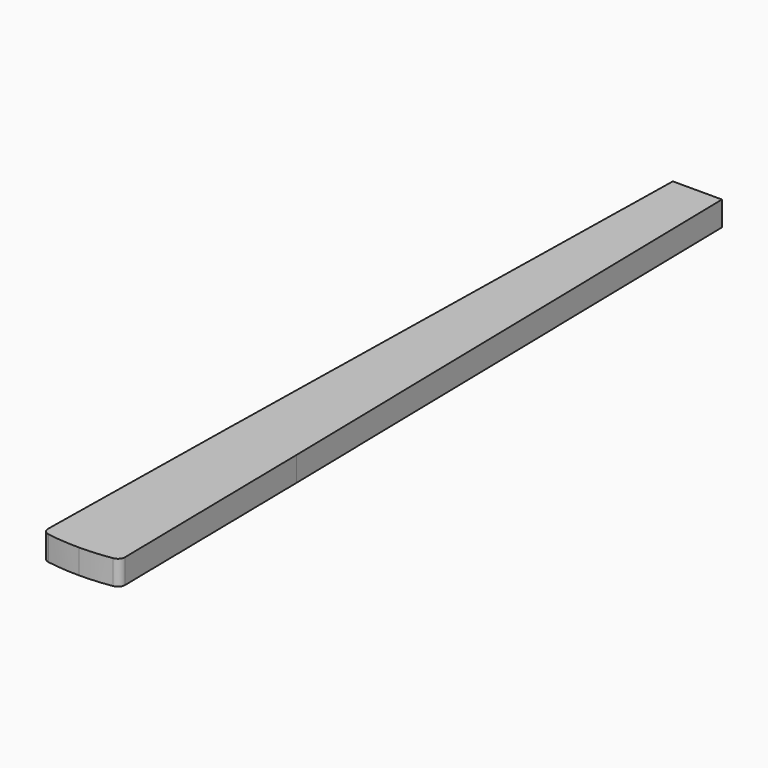
from build123d import *

# Parameters (mm, degrees)
F1_DEPTH = 20


with BuildPart() as f1:
    # F0 (on Top) → F1 (new body)
    with BuildSketch(Plane.XY):
        with BuildLine():
            Line((0, 602.120165), (-8.537433, 158.088193))
            Line((-8.537433, 158.088193), (-11.36, -19.861807))
            ThreePointArc((-11.36, -19.861807), (-9.968781, -23.757604), (-6.36, -25.779835))
            ThreePointArc((-6.36, -25.779835), (6.778319, -27.353029), (20, -27.879835))
            ThreePointArc((20, -27.879835), (33.221681, -27.353029), (46.36, -25.779835))
            ThreePointArc((46.36, -25.779835), (49.968781, -23.757604), (51.36, -19.861807))
            Line((51.36, -19.861807), (48.537433, 158.088193))
            Line((48.537433, 158.088193), (40, 602.120165))
            Line((40, 602.120165), (20, 602.120165))
            Line((20, 602.120165), (0, 602.120165))
        make_face()
    extrude(amount=F1_DEPTH)


solid = f1.part
